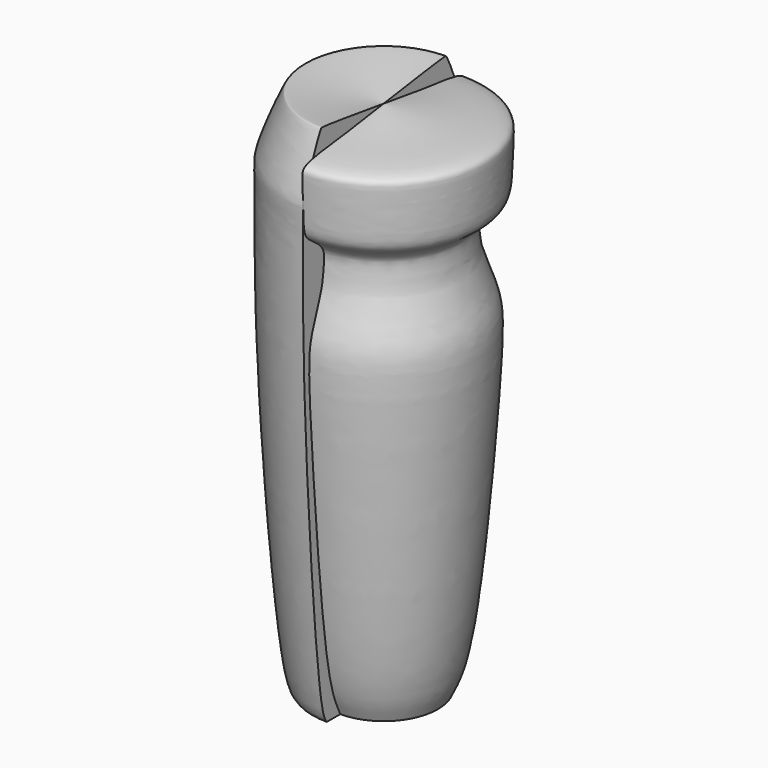
from build123d import *

# Parameters (mm, degrees)
F1_ANGLE_BACK = 90
F1_ANGLE      = 180
F2_ANGLE_BACK = 90
F2_ANGLE      = 180


with BuildPart() as f1:
    # F0 (on Front) → F1 (revolve)
    with BuildSketch(Plane.XZ, mode=Mode.PRIVATE) as f1_sk:
        with BuildLine():
            Line((0, -146.8081474304), (0, 93.8096195459))
            add(Edge.make_bspline(
                [(-33.1542640924, -146.8081474304), (-33.8989810477, -145.8329901414), (-38.3162614047, -140.0488555014), (-48.3457715908, -2.3787094975), (-46.7058402745, 64.9232027885), (-47.8185865898, 72.8713177435), (-37.1339842088, 98.4182280093), (-35.4392483859, 98.9218055582), (-16.135366313, 96.1371800255), (0, 93.8096195459)],
                knots=[0, 0, 0, 0, 0.063459912, 0.3764117641, 0.596747506, 0.675553782, 0.809492577, 0.8407622341, 1, 1, 1, 1], degree=3))
            Line((-33.1542640924, -146.8081474304), (0, -146.8081474304))
        make_face()
    revolve(f1_sk.sketch.rotate(Axis((0, 0, -26.4992639422), (0, 0, -1)), -F1_ANGLE_BACK), axis=Axis((0, 0, -26.4992639422), (0, 0, -1)), revolution_arc=F1_ANGLE)


with BuildPart() as f2:
    # F0 (on Front) → F2 (revolve)
    with BuildSketch(Plane.XZ, mode=Mode.PRIVATE) as f2_sk:
        with BuildLine():
            add(Edge.make_bspline(
                [(25.352621451, -146.8081474304), (27.3674623238, -142.6212354785), (33.8766312866, -129.094951858), (41.1933405793, -43.23273314), (44.0877995381, 3.0055631545), (42.5821338122, 15.7871146473), (35.5211667924, 32.6749050815), (35.2762205986, 40.0112993586), (33.8218743123, 48.3827096869), (40.9528140506, 53.808115387), (46.3497457666, 57.3379675402), (46.921219398, 66.509007051), (47.5316411271, 81.810171028), (47.3672979738, 88.075031209), (23.8567522334, 89.9316156533), (10.8343392819, 92.4618453261), (0, 93.8096195459)],
                knots=[0, 0, 0, 0, 0.0731959413, 0.2359209709, 0.3549222507, 0.4158146437, 0.4879734283, 0.5361452196, 0.5834549488, 0.6332038519, 0.6754746023, 0.7272306359, 0.7958424796, 0.8328611671, 0.9098684369, 1, 1, 1, 1], degree=3))
            Line((0, 93.8096195459), (0, -146.8081474304))
            Line((0, -146.8081474304), (25.352621451, -146.8081474304))
        make_face()
    revolve(f2_sk.sketch.rotate(Axis((0, 0, -26.4992639422), (0, 0, -1)), -F2_ANGLE_BACK), axis=Axis((0, 0, -26.4992639422), (0, 0, -1)), revolution_arc=F2_ANGLE)


solid = Compound([f1.part, f2.part])
